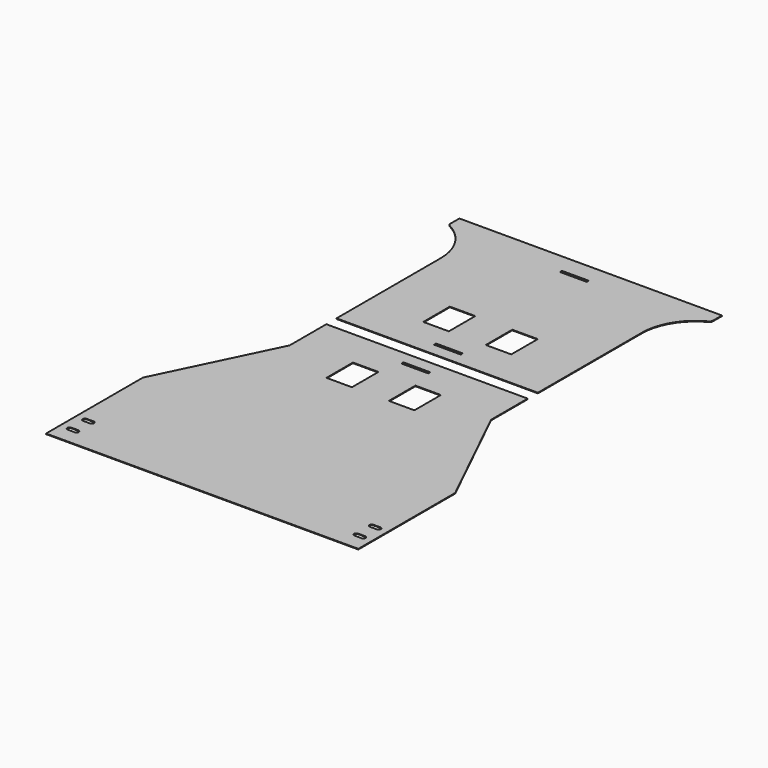
from build123d import *

# Parameters (mm, degrees)
F0_W     = 490
F0_H     = 190
F1_DEPTH = 1
F2_R     = 5
F3_W     = 42
F3_H     = 4
F4_DEPTH = 25
F5_W     = 42
F5_H     = 4
F6_DEPTH = 25


with BuildPart() as f1:
    # F0 (on Top) → F1 (new body)
    with BuildSketch(Plane.XY):
        with Locations((245, 95)):
            Rectangle(F0_W, F0_H)
        with BuildLine():
            Line((25.5, 24.5), (14.5, 24.5))
            ThreePointArc((14.5, 24.5), (11, 28), (14.5, 31.5))
            Line((14.5, 31.5), (25.5, 31.5))
            ThreePointArc((25.5, 31.5), (29, 28), (25.5, 24.5))
        make_face(mode=Mode.SUBTRACT)
        with BuildLine():
            Line((25.5, 54.5), (14.5, 54.5))
            ThreePointArc((14.5, 54.5), (11, 58), (14.5, 61.5))
            Line((14.5, 61.5), (25.5, 61.5))
            ThreePointArc((25.5, 61.5), (29, 58), (25.5, 54.5))
        make_face(mode=Mode.SUBTRACT)
        with BuildLine():
            Line((475.5, 24.5), (464.5, 24.5))
            ThreePointArc((464.5, 24.5), (461, 28), (464.5, 31.5))
            Line((464.5, 31.5), (475.5, 31.5))
            ThreePointArc((475.5, 31.5), (479, 28), (475.5, 24.5))
        make_face(mode=Mode.SUBTRACT)
        with BuildLine():
            Line((475.5, 54.5), (464.5, 54.5))
            ThreePointArc((464.5, 54.5), (461, 58), (464.5, 61.5))
            Line((464.5, 61.5), (475.5, 61.5))
            ThreePointArc((475.5, 61.5), (479, 58), (475.5, 54.5))
        make_face(mode=Mode.SUBTRACT)
        Polygon((87, 369), (0, 190), (490, 190), (403, 369), (403, 441), (87, 441), align=None)
        with BuildLine():
            Line((87, 665), (87, 461))
            Line((87, 461), (403, 461))
            Line((403, 461), (403, 665))
            ThreePointArc((403, 665), (416.004684, 709.94441), (451, 741))
            Line((451, 741), (451, 762))
            Line((451, 762), (39, 762))
            Line((39, 762), (39, 741))
            ThreePointArc((39, 741), (73.995316, 709.94441), (87, 665))
        make_face()
    extrude(amount=F1_DEPTH)

    # F2
    f2_edges = [f1.edges().sort_by_distance(p)[0] for p in [
        (39, 741, 0.5),
        (451, 741, 0.5),
        (0, 190, 0.5),
        (490, 190, 0.5),
    ]]
    fillet(f2_edges, radius=F2_R)

    # F3 (on face) → F4 (cut)
    with BuildSketch(Plane.XY.offset(1)):
        Polygon((176, 330), (211, 330), (216, 330), (216, 377), (216, 382), (176, 382), (176, 377), align=None)
        with Locations((245, 419)):
            Rectangle(F3_W, F3_H)
        Polygon((279, 330), (314, 330), (314, 377), (314, 382), (274, 382), (274, 377), (274, 330), align=None)
    extrude(amount=-F4_DEPTH, mode=Mode.SUBTRACT)

    # F5 (on face) → F6 (cut)
    with BuildSketch(Plane.XY.offset(1)):
        with Locations((245, 483)):
            Rectangle(F5_W, F5_H)
        Polygon((216, 572), (211, 572), (176, 572), (176, 525), (176, 520), (216, 520), (216, 525), align=None)
        Polygon((314, 572), (279, 572), (274, 572), (274, 525), (274, 520), (314, 520), (314, 525), align=None)
        with Locations((245, 730)):
            Rectangle(F5_W, F5_H)
    extrude(amount=-F6_DEPTH, mode=Mode.SUBTRACT)


solid = f1.part
